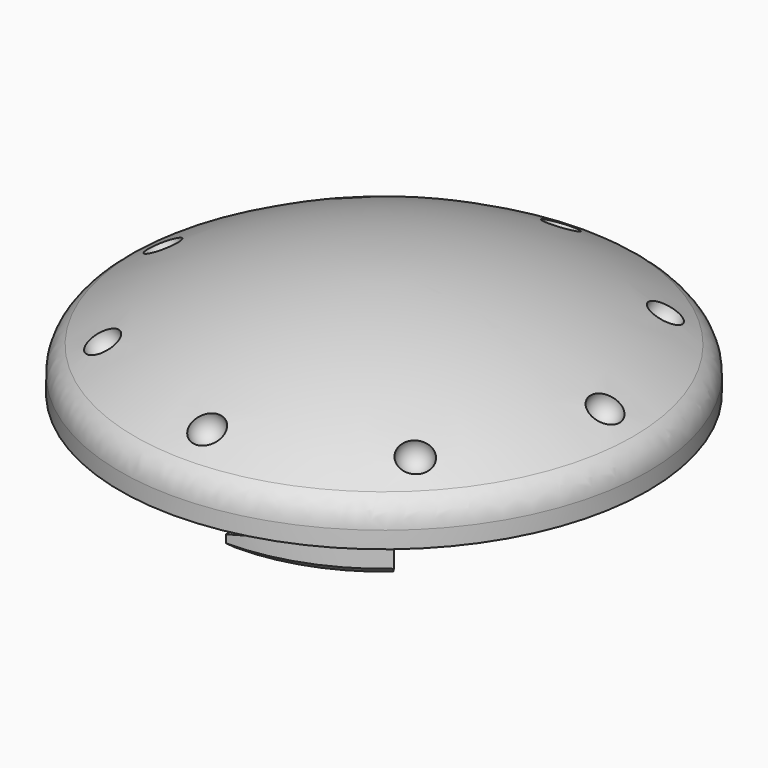
from build123d import *

# Parameters (mm, degrees)
F2_R       = 2.7
F4_DEPTH   = 5.401
F7_COUNT   = 8
F8_SIZE2   = 1.5
F8_SIZE    = 6
F8_2_SIZE2 = 1.5
F8_2_SIZE  = 6
F8_3_SIZE2 = 1.5
F8_3_SIZE  = 6


with BuildPart() as f1:
    # F0 (on Front) → F1 (revolve)
    with BuildSketch(Plane.XZ):
        with BuildLine():
            Line((14.6, -2.4), (14.6, 0))
            Line((14.6, 0), (23.5, 0))
            Line((23.5, 0), (23.5, 3))
            ThreePointArc((23.5, 3), (12.2460197615, 8.1393426661), (0, 9.9))
            Line((0, 9.9), (0, 4.5))
            Line((0, 4.5), (12, 4.5))
            Line((12, 4.5), (12, 0))
            Line((12, 0), (12, -5.4))
            Line((12, -5.4), (16.5, -5.4))
            Line((16.5, -5.4), (17.6, -4.6))
            Line((17.6, -4.6), (17.6, -2.4))
            Line((17.6, -2.4), (14.6, -2.4))
        make_face()
    revolve(axis=Axis((0, 0, 7.2), (0, 0, 1)))

    # F2
    f2_edges = [f1.edges().sort_by_distance(p)[0] for p in [
        (-23.5, 0, 3),
    ]]
    fillet(f2_edges, radius=F2_R)

    # F3 (on Top) → F4 (cut, through all)
    with BuildSketch(Plane.XY):
        with BuildLine():
            Line((0, 0), (15.3835737599, -17.7650121974))
            ThreePointArc((15.3835737599, -17.7650121974), (23.4965124713, 0.4048477334), (14.7624375114, 18.2844315941))
            Line((14.7624375114, 18.2844315941), (9.108738039, 11.281883324))
            Line((9.108738039, 11.281883324), (4.0889006668, 11.281883324))
            Line((4.0889006668, 11.281883324), (0, 0))
        make_face()
        with BuildLine():
            Line((0, -23.5), (0, 0))
            Line((0, 0), (-23.1291397677, 4.1584725089))
            ThreePointArc((-23.1291397677, 4.1584725089), (-18.0273972603, -15.0752428843), (0, -23.5))
        make_face()
        with BuildLine():
            Line((-14.7624375114, 18.2844315941), (0, 0))
            Line((0, 0), (5.2023993918, 22.9169160353))
            ThreePointArc((5.2023993918, 22.9169160353), (-5.3116438356, 22.8918422099), (-14.7624375114, 18.2844315941))
        make_face()
    extrude(amount=-F4_DEPTH, mode=Mode.SUBTRACT)

    # F7: F6 ×8 about axis
    f7_axis = Axis((0, 0, 7.2), (0, 0, 1))


with BuildPart() as f6:
    # F5 (on Front) → F6 (revolve)
    with BuildSketch(Plane.XZ):
        with BuildLine():
            Line((19.65, 6.5500239328), (19.65, 3.6500239328))
            ThreePointArc((19.65, 3.6500239328), (21.1, 5.1000239328), (19.65, 6.5500239328))
        make_face()
    revolve(axis=Axis((19.65, 0, 5.1000239328), (0, 0, 1)))


with BuildPart() as f1_1:
    add(f1.part)
    for i in range(1, F7_COUNT):
        add(f6.part.rotate(f7_axis, i * 360 / F7_COUNT), mode=Mode.SUBTRACT)

    # F7#seed: cut F6
    add(f6.part, mode=Mode.SUBTRACT)

    # F8
    f8_edges = [f1_1.edges().sort_by_distance(p)[0] for p in [
        (-10.11384, 12.526781, -2.4),
    ]]
    f8_side = f1_1.faces().sort_by_distance((-13.599633, 8.054963, -2.4))[0]
    chamfer(f8_edges, length=F8_SIZE, length2=F8_SIZE2, reference=f8_side)

    # F8#2
    f8_2_edges = [f1_1.edges().sort_by_distance(p)[0] for p in [
        (0, -16.1, -2.4),
    ]]
    f8_2_side = f1_1.faces().sort_by_distance((5.521305, -14.810389, -2.4))[0]
    chamfer(f8_2_edges, length=F8_2_SIZE, length2=F8_2_SIZE2, reference=f8_2_side)

    # F8#3
    f8_3_edges = [f1_1.edges().sort_by_distance(p)[0] for p in [
        (10.11384, 12.526781, -2.4),
    ]]
    f8_3_side = f1_1.faces().sort_by_distance((6.980178, 14.404963, -2.4))[0]
    chamfer(f8_3_edges, length=F8_3_SIZE, length2=F8_3_SIZE2, reference=f8_3_side)


solid = f1_1.part
